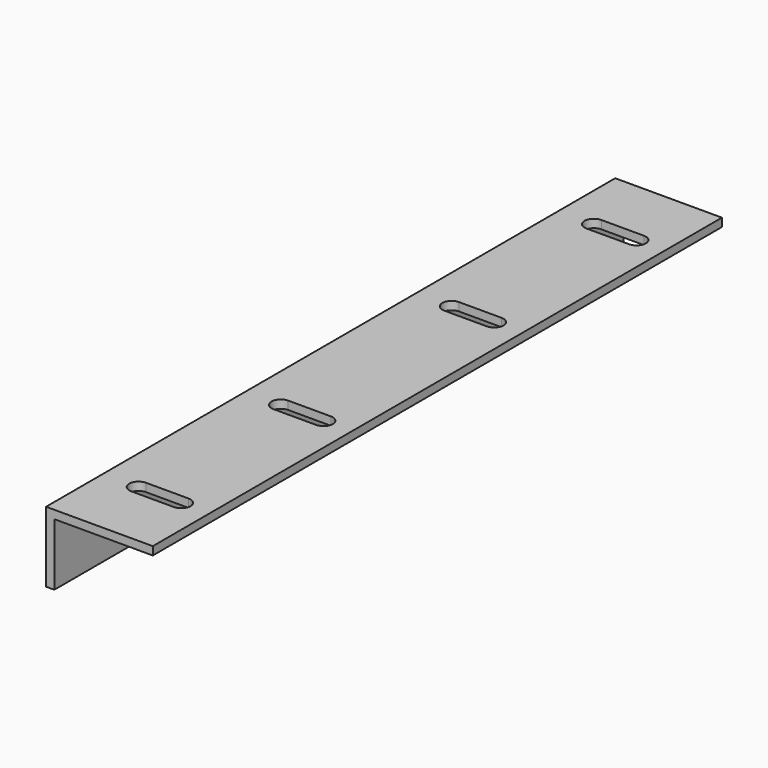
from build123d import *

# Parameters (mm, degrees)
F0_W     = 1.4732
F0_H     = 11.0998
F0_H_2   = 1.4732
F0_W_2   = 17.5768
F1_DEPTH = 63.5
F3_DEPTH = 12.574


with BuildPart() as f1:
    # F0 (on Front) → F1 (new body, symmetric)
    with BuildSketch(Plane.XZ):
        with Locations((-0.7366, -5.5499)):
            Rectangle(F0_W, F0_H)
        with Locations((-0.7366, 0.7366)):
            Rectangle(F0_W, F0_H_2)
        with Locations((8.7884, 0.7366)):
            Rectangle(F0_W_2, F0_H_2)
    extrude(amount=F1_DEPTH, both=True)

    # F2 (on face) → F3 (cut, through all)
    with BuildSketch(Plane.XY.offset(1.4732)):
        with BuildLine():
            ThreePointArc((12.4968, -52.451), (10.8458, -50.8), (12.4968, -49.149))
            Line((12.4968, -49.149), (4.8768, -49.149))
            ThreePointArc((4.8768, -49.149), (6.044233, -49.632567), (6.5278, -50.8))
            ThreePointArc((6.5278, -50.8), (6.044233, -51.967433), (4.8768, -52.451))
            Line((4.8768, -52.451), (12.4968, -52.451))
        make_face()
        with BuildLine():
            ThreePointArc((6.5278, -50.8), (6.044233, -49.632567), (4.8768, -49.149))
            ThreePointArc((4.8768, -49.149), (3.2258, -50.8), (4.8768, -52.451))
            ThreePointArc((4.8768, -52.451), (6.044233, -51.967433), (6.5278, -50.8))
        make_face()
        with BuildLine():
            ThreePointArc((12.4968, -52.451), (13.664233, -51.967433), (14.1478, -50.8))
            ThreePointArc((14.1478, -50.8), (13.664233, -49.632567), (12.4968, -49.149))
            ThreePointArc((12.4968, -49.149), (10.8458, -50.8), (12.4968, -52.451))
        make_face()
        with BuildLine():
            ThreePointArc((14.1478, -19.05), (13.664233, -17.882567), (12.4968, -17.399))
            ThreePointArc((12.4968, -17.399), (10.8458, -19.05), (12.4968, -20.701))
            ThreePointArc((12.4968, -20.701), (13.664233, -20.217433), (14.1478, -19.05))
        make_face()
        with BuildLine():
            Line((12.4968, -17.399), (4.8768, -17.399))
            ThreePointArc((4.8768, -17.399), (6.044233, -17.882567), (6.5278, -19.05))
            ThreePointArc((6.5278, -19.05), (6.044233, -20.217433), (4.8768, -20.701))
            Line((4.8768, -20.701), (12.4968, -20.701))
            ThreePointArc((12.4968, -20.701), (10.8458, -19.05), (12.4968, -17.399))
        make_face()
        with BuildLine():
            ThreePointArc((6.5278, -19.05), (6.044233, -17.882567), (4.8768, -17.399))
            ThreePointArc((4.8768, -17.399), (3.2258, -19.05), (4.8768, -20.701))
            ThreePointArc((4.8768, -20.701), (6.044233, -20.217433), (6.5278, -19.05))
        make_face()
        with BuildLine():
            ThreePointArc((12.4968, 20.701), (10.8458, 19.05), (12.4968, 17.399))
            ThreePointArc((12.4968, 17.399), (13.664233, 17.882567), (14.1478, 19.05))
            ThreePointArc((14.1478, 19.05), (13.664233, 20.217433), (12.4968, 20.701))
        make_face()
        with BuildLine():
            ThreePointArc((6.5278, 19.05), (6.044233, 17.882567), (4.8768, 17.399))
            Line((4.8768, 17.399), (12.4968, 17.399))
            ThreePointArc((12.4968, 17.399), (10.8458, 19.05), (12.4968, 20.701))
            Line((12.4968, 20.701), (4.8768, 20.701))
            ThreePointArc((4.8768, 20.701), (6.044233, 20.217433), (6.5278, 19.05))
        make_face()
        with BuildLine():
            ThreePointArc((4.8768, 20.701), (3.2258, 19.05), (4.8768, 17.399))
            ThreePointArc((4.8768, 17.399), (6.044233, 17.882567), (6.5278, 19.05))
            ThreePointArc((6.5278, 19.05), (6.044233, 20.217433), (4.8768, 20.701))
        make_face()
        with BuildLine():
            ThreePointArc((12.4968, 49.149), (13.664233, 49.632567), (14.1478, 50.8))
            ThreePointArc((14.1478, 50.8), (13.664233, 51.967433), (12.4968, 52.451))
            ThreePointArc((12.4968, 52.451), (10.8458, 50.8), (12.4968, 49.149))
        make_face()
        with BuildLine():
            ThreePointArc((12.4968, 49.149), (10.8458, 50.8), (12.4968, 52.451))
            Line((12.4968, 52.451), (4.8768, 52.451))
            ThreePointArc((4.8768, 52.451), (6.044233, 51.967433), (6.5278, 50.8))
            ThreePointArc((6.5278, 50.8), (6.044233, 49.632567), (4.8768, 49.149))
            Line((4.8768, 49.149), (12.4968, 49.149))
        make_face()
        with BuildLine():
            ThreePointArc((6.5278, 50.8), (6.044233, 51.967433), (4.8768, 52.451))
            ThreePointArc((4.8768, 52.451), (3.2258, 50.8), (4.8768, 49.149))
            ThreePointArc((4.8768, 49.149), (6.044233, 49.632567), (6.5278, 50.8))
        make_face()
    extrude(amount=-F3_DEPTH, mode=Mode.SUBTRACT)


solid = f1.part
